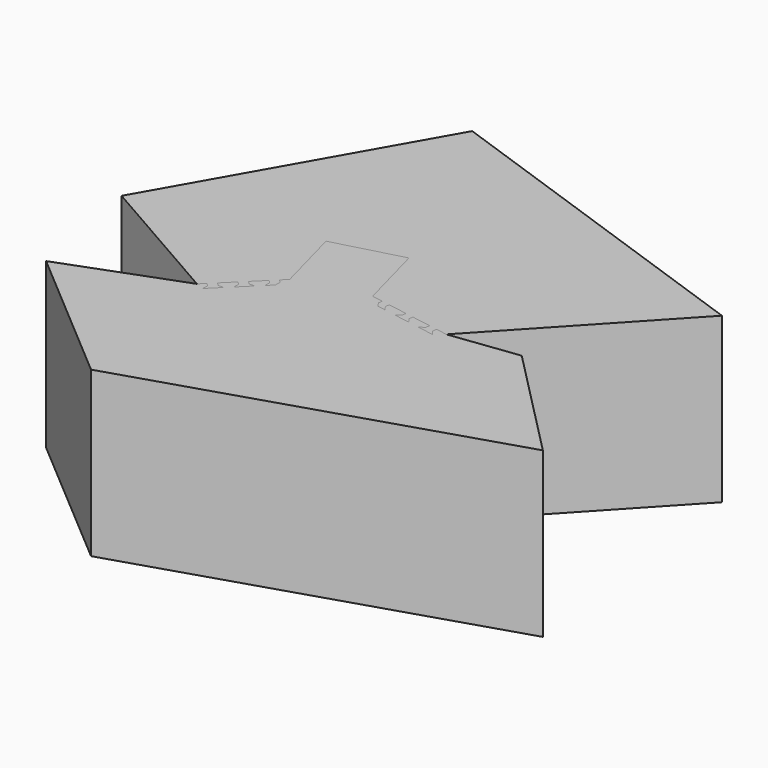
from build123d import *

# Parameters (mm, degrees)
F1_DEPTH = 100
F2_DEPTH = 100


with BuildPart() as f1:
    # F0 (on Top) → F1 (new body)
    with BuildSketch(Plane.XY):
        Polygon((47.063552, -4.100652), (53.87475, -5.25502), (54.52035, -3.4165), (55.49985, -0.94579), (57.70885, 4.3215), (58.83355, 7.1273), (59.89635, 10.0413), (60.84015, 13.0489), (61.60975, 16.1281), (62.15425, 19.2503), (62.42905, 22.3813), (62.39715, 25.483), (62.03065, 28.5147), (61.64635, 30.0767), (56.95075, 31.9738), (54.45145, 32.505), (54.47725, 32.6261), (53.28815, 33.6967), (53.62085, 35.2618), (55.14255, 35.7562), (55.32655, 35.5905), (57.88995, 35.0457), (60.28315, 34.0787), (60.23445, 34.2037), (58.80165, 36.7834), (57.02775, 39.1417), (54.93675, 41.2523), (52.56115, 43.0965), (49.94065, 44.6643), (47.12005, 45.9551), (44.14795, 46.9776), (41.07425, 47.75), (37.94825, 48.2994), (34.81675, 48.6605), (31.72235, 48.8748), (28.70165, 48.9886), (22.99125, 49.1129), (20.33575, 49.2231), (17.82175, 49.4276), (15.44465, 49.7675), (13.19215, 50.2766), (11.04515, 50.9802), (8.97875, 51.894), (6.96425, 53.0228), (4.97025, 54.3608), (2.96505, 55.8911), (0.91795, 57.5861), (-3.4089, 61.3147), (-5.72986, 63.2514), (-8.17284, 65.1627), (-10.74162, 66.9897), (-13.40326, 68.655), (-16.20161, 75.2043), (-14.03963, 79.8407), (-19.57281, 82.4209), (-20.20982, 83.7705), (-24.42685, 91.3774), (-29.06795, 98.0634), (-31.05355, 100.1334), (-37.50015, 98.4054), (-37.48715, 98.3574), (-43.86225, 96.6494), (-43.87525, 96.6974), (-50.32175, 94.9704), (-51.00685, 92.1854), (-51.68285, 84.0741), (-51.53145, 75.3779), (-51.40835, 73.8905), (-54.91005, 68.8895), (-50.40475, 65.7348), (-48.90245, 67.8802), (-42.34855, 43.4208), (-51.04195, 41.0914), (-53.64105, 50.7915), (-53.81195, 50.3678), (-54.85355, 47.5301), (-56.73645, 42.1377), (-57.66175, 39.6462), (-58.63325, 37.3183), (-59.69105, 35.1626), (-60.87125, 33.1777), (-62.20395, 31.3532), (-63.71145, 29.6703), (-65.40765, 28.1032), (-67.29635, 26.6203), (-69.37125, 25.1861), (-71.61595, 23.763), (-76.49915, 20.8001), (-79.05825, 19.1913), (-81.63085, 17.4585), (-84.16225, 15.58), (-86.59475, 13.5412), (-88.87045, 11.3354), (-90.93315, 8.9639), (-92.73045, 6.4358), (-94.21595, 3.7677), (-94.82315, 2.2781), (-92.13945, -2.01668), (-90.42975, -3.9155), (-90.52175, -3.99832), (-90.18905, -5.56336), (-91.37805, -6.63397), (-92.89975, -6.13954), (-92.95125, -5.89739), (-94.70485, -3.94984), (-96.07265, -1.7609), (-96.10675, -1.89056), (-96.46385, -4.81984), (-96.41485, -7.7704), (-95.96375, -10.70692), (-95.12595, -13.59526), (-93.92745, -16.40399), (-92.40425, -19.10613), (-90.60075, -21.6803), (-88.56805, -24.1119), (-86.36195, -26.3938), (-84.04085, -28.5265), (-81.66345, -30.5187), (-79.28645, -32.3863), (-74.73975, -35.8434), (-72.65615, -37.4933), (-71.17785, -38.7628), (-67.746659, -35.375531), (-65.990316, -37.154648), (-66.036159, -40.712882), (-62.477924, -37.200195), (-58.91969, -33.687508), (-62.432377, -33.642252), (-64.18872, -31.863135), (-57.199591, -24.963471), (-55.443247, -26.742588), (-55.443247, -30.255566), (-51.885013, -26.742879), (-48.326779, -23.230192), (-51.885308, -23.230192), (-53.641652, -21.451075), (-46.629601, -14.528783), (-44.873258, -16.3079), (-44.9191, -19.866134), (-41.360866, -16.353447), (-41.315319, -12.795504), (-43.071662, -11.016387), (-39.656596, -7.645036), (-39.61755, -7.60649), (-50.74555, 33.9239), (-9.14656, 45.0703), (1.98145, 3.5399), (8.792648, 2.385532), (8.374903, -0.079318), (10.422009, -2.961914), (15.35171, -3.797404), (13.304605, -0.914808), (13.72235, 1.550042), (25.463249, -0.439815), (25.045504, -2.904666), (22.162909, -4.951772), (27.09261, -5.787261), (32.022312, -6.622751), (29.975206, -3.740156), (30.392951, -1.275305), (42.13385, -3.265162), (41.716105, -5.730013), (38.83351, -7.777119), (43.763211, -8.612609), (48.692913, -9.448099), (46.645807, -6.565503), align=None)
        Polygon((-71.09905, -29.6513), (-71.20325, -29.5837), (-73.46545, -29.4651), (-78.15285, -28.7227), (-82.73695, -27.4944), (-84.95225, -26.644), (-83.80545, -23.6566), (-81.74675, -24.4468), (-77.48665, -25.5883), (-73.13045, -26.2783), (-70.92835, -26.3937), (-70.93155, -26.4557), (-69.58965, -27.3272), (-69.67345, -28.925), align=None, mode=Mode.SUBTRACT)
        Polygon((-70.74295, -22.8573), (-74.18435, -22.3123), (-77.43725, -21.0636), (-80.35935, -19.16594), (-82.82315, -16.70218), (-84.72085, -13.78001), (-85.96945, -10.52715), (-86.51455, -7.08579), (-86.33215, -3.60628), (-85.43035, -0.24072), (-83.84855, 2.8638), (-81.65585, 5.5716), (-78.94805, 7.7643), (-75.84355, 9.3462), (-72.47795, 10.248), (-68.99845, 10.4303), (-65.55705, 9.8853), (-62.30415, 8.6366), (-59.38205, 6.7389), (-56.91825, 4.2752), (-55.02055, 1.353), (-53.77195, -1.89987), (-53.22685, -5.34126), (-53.40925, -8.820756), (-54.31105, -12.1863), (-55.89285, -15.29082), (-58.08555, -17.99861), (-60.79335, -20.1914), (-63.89795, -21.7732), (-67.26345, -22.675), align=None, mode=Mode.SUBTRACT)
        Polygon((47.65305, 2.5126), (46.78155, 3.8544), (47.50795, 5.28), (49.10575, 5.3638), (49.97715, 4.0219), (49.25085, 2.5963), align=None, mode=Mode.SUBTRACT)
        Polygon((-68.80985, 14.0287), (-70.15175, 14.9001), (-70.06795, 16.4979), (-68.64235, 17.2243), (-67.30055, 16.3529), (-67.38425, 14.7551), align=None, mode=Mode.SUBTRACT)
        Polygon((-38.42705, 76.3648), (-41.06855, 86.2228), (-40.95165, 86.2541), (-40.99295, 86.4082), (-40.82145, 86.6005), (-40.83585, 86.6542), (-40.60045, 86.9603), (-40.34885, 87.0277), (-40.37745, 87.1348), (-40.04765, 87.5049), (-39.58545, 87.769), (-39.29825, 86.6972), (-36.45885, 87.458), (-36.74675, 88.5325), (-36.73955, 88.5344), (-36.57845, 88.5497), (-35.93765, 88.4719), (-35.69425, 88.2749), (-35.46745, 88.3356), (-35.06415, 88.1691), (-35.05765, 88.145), (-34.76845, 87.9109), (-34.69345, 87.931), (-32.05195, 78.073), align=None, mode=Mode.SUBTRACT)
        Polygon((35.59585, 5.6361), (32.15445, 6.1811), (28.90165, 7.4298), (25.97945, 9.3275), (23.51575, 11.7912), (21.61805, 14.7134), (20.36935, 17.9662), (19.82435, 21.4076), (20.00665, 24.8871), (20.90845, 28.2527), (22.49025, 31.3572), (24.68305, 34.065), (27.39085, 36.2577), (30.49535, 37.8396), (33.86085, 38.7414), (37.34045, 38.9237), (40.78175, 38.3787), (44.03465, 37.13), (46.95685, 35.2323), (49.42055, 32.7686), (51.31825, 29.8464), (52.56695, 26.5935), (53.11195, 23.1522), (52.92965, 19.6727), (52.02785, 16.3071), (50.44595, 13.2026), (48.25325, 10.4948), (45.54545, 8.3021), (42.44095, 6.7202), (39.07535, 5.8184), align=None, mode=Mode.SUBTRACT)
        Polygon((23.83045, 39.196), (22.95905, 40.5379), (23.68545, 41.9635), (23.80955, 41.97), (25.70935, 43.2038), (29.93795, 45.3583), (34.36855, 47.0591), (36.66065, 47.6732), (37.48885, 44.5823), (35.35875, 44.0115), (31.24125, 42.431), (27.31155, 40.4287), (25.46215, 39.2276), (25.42835, 39.2798), align=None, mode=Mode.SUBTRACT)
        Polygon((-40.95165, 86.2541), (-41.06855, 86.2228), (-38.42705, 76.3648), (-32.05195, 78.073), (-34.69345, 87.931), (-34.76845, 87.9109), (-35.05765, 88.145), (-35.06415, 88.1691), (-35.46745, 88.3356), (-35.69425, 88.2749), (-35.93765, 88.4719), (-36.57845, 88.5497), (-36.73955, 88.5344), (-36.74675, 88.5325), (-36.45885, 87.458), (-39.29825, 86.6972), (-39.58545, 87.769), (-40.04765, 87.5049), (-40.37745, 87.1348), (-40.34885, 87.0277), (-40.60045, 86.9603), (-40.83585, 86.6542), (-40.82145, 86.6005), (-40.99295, 86.4082), align=None)
        Polygon((28.90165, 7.4298), (32.15445, 6.1811), (35.59585, 5.6361), (39.07535, 5.8184), (42.44095, 6.7202), (45.54545, 8.3021), (48.25325, 10.4948), (50.44595, 13.2026), (52.02785, 16.3071), (52.92965, 19.6727), (53.11195, 23.1522), (52.56695, 26.5935), (51.31825, 29.8464), (49.42055, 32.7686), (46.95685, 35.2323), (44.03465, 37.13), (40.78175, 38.3787), (37.34045, 38.9237), (33.86085, 38.7414), (30.49535, 37.8396), (27.39085, 36.2577), (24.68305, 34.065), (22.49025, 31.3572), (20.90845, 28.2527), (20.00665, 24.8871), (19.82435, 21.4076), (20.36935, 17.9662), (21.61805, 14.7134), (23.51575, 11.7912), (25.97945, 9.3275), align=None)
        Polygon((-77.43725, -21.0636), (-74.18435, -22.3123), (-70.74295, -22.8573), (-67.26345, -22.675), (-63.89795, -21.7732), (-60.79335, -20.1914), (-58.08555, -17.99861), (-55.89285, -15.29082), (-54.31105, -12.1863), (-53.40925, -8.820756), (-53.22685, -5.34126), (-53.77195, -1.89987), (-55.02055, 1.353), (-56.91825, 4.2752), (-59.38205, 6.7389), (-62.30415, 8.6366), (-65.55705, 9.8853), (-68.99845, 10.4303), (-72.47795, 10.248), (-75.84355, 9.3462), (-78.94805, 7.7643), (-81.65585, 5.5716), (-83.84855, 2.8638), (-85.43035, -0.24072), (-86.33215, -3.60628), (-86.51455, -7.08579), (-85.96945, -10.52715), (-84.72085, -13.78001), (-82.82315, -16.70218), (-80.35935, -19.16594), align=None)
        Polygon((-70.06795, 16.4979), (-70.15175, 14.9001), (-68.80985, 14.0287), (-67.38425, 14.7551), (-67.30055, 16.3529), (-68.64235, 17.2243), align=None)
        Polygon((47.50795, 5.28), (46.78155, 3.8544), (47.65305, 2.5126), (49.25085, 2.5963), (49.97715, 4.0219), (49.10575, 5.3638), align=None)
        Polygon((23.68545, 41.9635), (22.95905, 40.5379), (23.83045, 39.196), (25.42835, 39.2798), (25.46215, 39.2276), (27.31155, 40.4287), (31.24125, 42.431), (35.35875, 44.0115), (37.48885, 44.5823), (36.66065, 47.6732), (34.36855, 47.0591), (29.93795, 45.3583), (25.70935, 43.2038), (23.80955, 41.97), align=None)
        Polygon((-73.46545, -29.4651), (-71.20325, -29.5837), (-71.09905, -29.6513), (-69.67345, -28.925), (-69.58965, -27.3272), (-70.93155, -26.4557), (-70.92835, -26.3937), (-73.13045, -26.2783), (-77.48665, -25.5883), (-81.74675, -24.4468), (-83.80545, -23.6566), (-84.95225, -26.644), (-82.73695, -27.4944), (-78.15285, -28.7227), align=None)
        Polygon((54.52035, -3.4165), (53.87475, -5.25502), (144.169867, 91.61818), (-67.26345, 165.863415), (-155.817702, 9.686623), (-71.17785, -38.7628), (-72.65615, -37.4933), (-74.73975, -35.8434), (-79.28645, -32.3863), (-81.66345, -30.5187), (-84.04085, -28.5265), (-86.36195, -26.3938), (-88.56805, -24.1119), (-90.60075, -21.6803), (-92.40425, -19.10613), (-93.92745, -16.40399), (-95.12595, -13.59526), (-95.96375, -10.70692), (-96.41485, -7.7704), (-96.46385, -4.81984), (-96.10675, -1.89056), (-96.07265, -1.7609), (-94.70485, -3.94984), (-92.95125, -5.89739), (-92.89975, -6.13954), (-91.37805, -6.63397), (-90.18905, -5.56336), (-90.52175, -3.99832), (-90.42975, -3.9155), (-92.13945, -2.01668), (-94.82315, 2.2781), (-94.21595, 3.7677), (-92.73045, 6.4358), (-90.93315, 8.9639), (-88.87045, 11.3354), (-86.59475, 13.5412), (-84.16225, 15.58), (-81.63085, 17.4585), (-79.05825, 19.1913), (-76.49915, 20.8001), (-71.61595, 23.763), (-69.37125, 25.1861), (-67.29635, 26.6203), (-65.40765, 28.1032), (-63.71145, 29.6703), (-62.20395, 31.3532), (-60.87125, 33.1777), (-59.69105, 35.1626), (-58.63325, 37.3183), (-57.66175, 39.6462), (-56.73645, 42.1377), (-54.85355, 47.5301), (-53.81195, 50.3678), (-53.64105, 50.7915), (-51.04195, 41.0914), (-42.34855, 43.4208), (-48.90245, 67.8802), (-50.40475, 65.7348), (-54.91005, 68.8895), (-51.40835, 73.8905), (-51.53145, 75.3779), (-51.68285, 84.0741), (-51.00685, 92.1854), (-50.32175, 94.9704), (-43.87525, 96.6974), (-43.86225, 96.6494), (-37.48715, 98.3574), (-37.50015, 98.4054), (-31.05355, 100.1334), (-29.06795, 98.0634), (-24.42685, 91.3774), (-20.20982, 83.7705), (-19.57281, 82.4209), (-14.03963, 79.8407), (-16.20161, 75.2043), (-13.40326, 68.655), (-10.74162, 66.9897), (-8.17284, 65.1627), (-5.72986, 63.2514), (-3.4089, 61.3147), (0.91795, 57.5861), (2.96505, 55.8911), (4.97025, 54.3608), (6.96425, 53.0228), (8.97875, 51.894), (11.04515, 50.9802), (13.19215, 50.2766), (15.44465, 49.7675), (17.82175, 49.4276), (20.33575, 49.2231), (22.99125, 49.1129), (28.70165, 48.9886), (31.72235, 48.8748), (34.81675, 48.6605), (37.94825, 48.2994), (41.07425, 47.75), (44.14795, 46.9776), (47.12005, 45.9551), (49.94065, 44.6643), (52.56115, 43.0965), (54.93675, 41.2523), (57.02775, 39.1417), (58.80165, 36.7834), (60.23445, 34.2037), (60.28315, 34.0787), (57.88995, 35.0457), (55.32655, 35.5905), (55.14255, 35.7562), (53.62085, 35.2618), (53.28815, 33.6967), (54.47725, 32.6261), (54.45145, 32.505), (56.95075, 31.9738), (61.64635, 30.0767), (62.03065, 28.5147), (62.39715, 25.483), (62.42905, 22.3813), (62.15425, 19.2503), (61.60975, 16.1281), (60.84015, 13.0489), (59.89635, 10.0413), (58.83355, 7.1273), (57.70885, 4.3215), (55.49985, -0.94579), align=None)
    extrude(amount=F1_DEPTH)


with BuildPart() as f2:
    # F0 (on Top) → F2 (new body)
    with BuildSketch(Plane.XY):
        Polygon((11.90965, -100.1334), (13.22625, -95.2199), (4.45365, -92.8693), (14.84455, -54.0901), (52.07465, -64.0659), (52.62445, -63.4753), (64.97425, -66.7844), (69.57335, -49.6203), (71.06085, -48.5787), (72.54825, -48.7018), (81.24445, -48.8532), (89.35575, -48.1771), (92.14075, -47.4921), (93.86775, -41.0456), (93.81975, -41.0326), (95.52775, -34.6575), (95.57575, -34.6705), (97.30375, -28.2239), (95.23375, -26.2383), (88.54775, -21.5972), (80.94085, -17.38019), (79.59125, -16.74316), (77.01105, -11.20998), (72.37465, -13.37196), (65.89685, -10.60355), (59.65165, -7.99066), (54.72455, -5.74194), (53.87475, -5.25502), (47.063552, -4.100652), (46.645807, -6.565503), (48.692913, -9.448099), (43.763211, -8.612609), (38.83351, -7.777119), (41.716105, -5.730013), (42.13385, -3.265162), (30.392951, -1.275305), (29.975206, -3.740156), (32.022312, -6.622751), (27.09261, -5.787261), (22.162909, -4.951772), (25.045504, -2.904666), (25.463249, -0.439815), (13.72235, 1.550042), (13.304605, -0.914808), (15.35171, -3.797404), (10.422009, -2.961914), (8.374903, -0.079318), (8.792648, 2.385532), (1.98145, 3.5399), (-9.14656, 45.0703), (-50.74555, 33.9239), (-39.61755, -7.60649), (-39.656596, -7.645036), (-43.071662, -11.016387), (-41.315319, -12.795504), (-41.360866, -16.353447), (-44.9191, -19.866134), (-44.873258, -16.3079), (-46.629601, -14.528783), (-53.641652, -21.451075), (-51.885308, -23.230192), (-48.326779, -23.230192), (-51.885013, -26.742879), (-55.443247, -30.255566), (-55.443247, -26.742588), (-57.199591, -24.963471), (-64.18872, -31.863135), (-62.432377, -33.642252), (-58.91969, -33.687508), (-62.477924, -37.200195), (-66.036159, -40.712882), (-65.990316, -37.154648), (-67.746659, -35.375531), (-71.17785, -38.7628), (-71.67025, -39.6093), (-74.81295, -44.0203), (-78.91505, -49.4058), (-83.14065, -55.0422), (-88.23695, -55.488), (-87.70485, -61.57), (-88.55515, -62.7965), (-93.03435, -70.2519), (-96.50455, -77.6145), (-97.30375, -80.3687), (-92.58445, -85.0879), (-92.54915, -85.0526), (-87.88225, -89.7195), (-87.91755, -89.7548), (-83.19835, -94.4741), (-80.44415, -93.6749), (-73.08155, -90.2047), (-65.62615, -85.7255), (-64.39965, -84.8752), (-58.31765, -85.4073), (-57.87185, -80.311), (-54.33325, -77.6581), (-53.75695, -78.6177), (-51.90805, -81.1082), (-49.82955, -83.3455), (-48.60055, -84.3832), (-43.68665, -83.1581), (-41.35245, -82.1188), (-41.30205, -82.2319), (-39.71085, -82.3991), (-39.06005, -83.8608), (-40.00055, -85.1552), (-40.24675, -85.1294), (-42.64085, -86.1953), (-45.14535, -86.8197), (-45.03255, -86.8922), (-42.35695, -88.137), (-39.53565, -89.0023), (-36.60345, -89.4807), (-33.59765, -89.5764), (-30.55595, -89.3045), (-27.51545, -88.6909), (-24.50995, -87.7711), (-21.56923, -86.5893), (-18.71733, -85.1963), (-15.97166, -83.6479), (-13.34227, -82.0024), (-10.8316, -80.319), (-6.13873, -77.063), (-3.92564, -75.5913), (-1.88705, -74.3495), (-7.40884, -94.957), align=None)
        Polygon((-80.44795, -82.114), (-80.70025, -82.0617), (-80.73955, -82.101), (-81.12235, -82.0502), (-81.30655, -81.866), (-81.38495, -81.9444), (-81.87035, -81.8438), (-82.33015, -81.5755), (-81.54555, -80.7909), (-83.62415, -78.7123), (-84.41065, -79.4989), (-84.41605, -79.4935), (-84.50975, -79.3617), (-84.76285, -78.7679), (-84.71395, -78.4586), (-84.87975, -78.2927), (-84.93725, -77.8599), (-84.91965, -77.8423), (-84.86155, -77.4748), (-84.91645, -77.4199), (-77.69985, -70.2033), (-73.03295, -74.8702), (-80.24955, -82.0868), (-80.33515, -82.0013), align=None, mode=Mode.SUBTRACT)
        Polygon((-33.68605, -79.92), (-37.12745, -79.3749), (-40.38025, -78.1263), (-43.30245, -76.2286), (-45.76625, -73.7648), (-47.66385, -70.8427), (-48.91255, -67.5898), (-49.45765, -64.1484), (-49.27525, -60.6689), (-48.37345, -57.3034), (-46.79165, -54.1988), (-44.59895, -51.491), (-41.89115, -49.2983), (-38.78655, -47.7165), (-35.42105, -46.8147), (-31.94155, -46.6323), (-28.50015, -47.1774), (-25.24725, -48.4261), (-22.32515, -50.3237), (-19.86136, -52.7875), (-17.96367, -55.7097), (-16.71503, -58.9625), (-16.16995, -62.4039), (-16.35231, -65.8834), (-17.25412, -69.249), (-18.83594, -72.3535), (-21.02867, -75.0613), (-23.73645, -77.254), (-26.84095, -78.8358), (-30.20655, -79.7376), align=None, mode=Mode.SUBTRACT)
        Polygon((-18.04369, -83.9329), (-20.53055, -81.9191), (-19.14276, -80.2053), (-16.74068, -76.5065), (-14.73839, -72.5767), (-13.94812, -70.518), (-13.89011, -70.5403), (-12.646667, -69.5334), (-11.152954, -70.1068), (-10.90266, -71.6871), (-10.99925, -71.7653), (-11.81105, -73.8801), (-13.96559, -78.1087), (-16.55037, -82.0888), align=None, mode=Mode.SUBTRACT)
        Polygon((-52.98085, -57.019), (-54.47465, -56.4456), (-54.72495, -54.8653), (-53.48145, -53.8584), (-51.98775, -54.4317), (-51.73745, -56.012), align=None, mode=Mode.SUBTRACT)
        Polygon((-29.46675, -39.4282), (-37.23135, -10.45041), (-28.53805, -8.12105), (-20.77344, -37.0988), align=None, mode=Mode.SUBTRACT)
        Polygon((0.40815, -31.4232), (-7.35638, -2.44544), (1.33695, -0.11607), (9.10155, -29.0938), align=None, mode=Mode.SUBTRACT)
        Polygon((-11.476974, -11.46422), (-13.22224, -11.23445), (-14.29387, -9.837876), (-14.0641, -8.09261), (-12.667526, -7.02098), (-10.92226, -7.25075), (-9.85063, -8.647324), (-10.0804, -10.39259), align=None, mode=Mode.SUBTRACT)
        Polygon((62.18005, -45.7029), (59.62655, -53.3009), (25.72255, -44.2163), (24.94615, -47.1141), (16.25275, -44.7847), (25.05265, -11.94324), (63.68965, -22.296), (62.66675, -42.7274), align=None, mode=Mode.SUBTRACT)
        Polygon((83.39315, -38.2389), (73.53515, -35.5974), (75.24335, -29.2223), (85.10135, -31.8638), (85.07005, -31.9807), (85.22405, -32.022), (85.30495, -32.2666), (85.35865, -32.281), (85.50595, -32.6378), (85.43855, -32.8895), (85.54565, -32.9182), (85.70125, -33.3889), (85.69895, -33.9213), (84.62705, -33.6341), (83.86615, -36.4735), (84.94065, -36.7614), (84.93865, -36.7689), (84.87145, -36.9158), (84.48365, -37.4318), (84.19135, -37.5441), (84.13065, -37.7708), (83.78465, -38.0369), (83.76055, -38.0304), (83.41325, -38.1639), align=None, mode=Mode.SUBTRACT)
        Polygon((-40.38025, -78.1263), (-37.12745, -79.3749), (-33.68605, -79.92), (-30.20655, -79.7376), (-26.84095, -78.8358), (-23.73645, -77.254), (-21.02867, -75.0613), (-18.83594, -72.3535), (-17.25412, -69.249), (-16.35231, -65.8834), (-16.16995, -62.4039), (-16.71503, -58.9625), (-17.96367, -55.7097), (-19.86136, -52.7875), (-22.32515, -50.3237), (-25.24725, -48.4261), (-28.50015, -47.1774), (-31.94155, -46.6323), (-35.42105, -46.8147), (-38.78655, -47.7165), (-41.89115, -49.2983), (-44.59895, -51.491), (-46.79165, -54.1988), (-48.37345, -57.3034), (-49.27525, -60.6689), (-49.45765, -64.1484), (-48.91255, -67.5898), (-47.66385, -70.8427), (-45.76625, -73.7648), (-43.30245, -76.2286), align=None)
        Polygon((-28.53805, -8.12105), (-37.23135, -10.45041), (-29.46675, -39.4282), (-20.77344, -37.0988), align=None)
        Polygon((1.33695, -0.11607), (-7.35638, -2.44544), (0.40815, -31.4232), (9.10155, -29.0938), align=None)
        Polygon((25.72255, -44.2163), (59.62655, -53.3009), (62.18005, -45.7029), (62.66675, -42.7274), (63.68965, -22.296), (25.05265, -11.94324), (16.25275, -44.7847), (24.94615, -47.1141), align=None)
        Polygon((-80.73955, -82.101), (-80.70025, -82.0617), (-80.44795, -82.114), (-80.33515, -82.0013), (-80.24955, -82.0868), (-73.03295, -74.8702), (-77.69985, -70.2033), (-84.91645, -77.4199), (-84.86155, -77.4748), (-84.91965, -77.8423), (-84.93725, -77.8599), (-84.87975, -78.2927), (-84.71395, -78.4586), (-84.76285, -78.7679), (-84.50975, -79.3617), (-84.41605, -79.4935), (-84.41065, -79.4989), (-83.62415, -78.7123), (-81.54555, -80.7909), (-82.33015, -81.5755), (-81.87035, -81.8438), (-81.38495, -81.9444), (-81.30655, -81.866), (-81.12235, -82.0502), align=None)
        Polygon((75.24335, -29.2223), (73.53515, -35.5974), (83.39315, -38.2389), (83.41325, -38.1639), (83.76055, -38.0304), (83.78465, -38.0369), (84.13065, -37.7708), (84.19135, -37.5441), (84.48365, -37.4318), (84.87145, -36.9158), (84.93865, -36.7689), (84.94065, -36.7614), (83.86615, -36.4735), (84.62705, -33.6341), (85.69895, -33.9213), (85.70125, -33.3889), (85.54565, -32.9182), (85.43855, -32.8895), (85.50595, -32.6378), (85.35865, -32.281), (85.30495, -32.2666), (85.22405, -32.022), (85.07005, -31.9807), (85.10135, -31.8638), align=None)
        Polygon((-19.14276, -80.2053), (-20.53055, -81.9191), (-18.04369, -83.9329), (-16.55037, -82.0888), (-13.96559, -78.1087), (-11.81105, -73.8801), (-10.99925, -71.7653), (-10.90266, -71.6871), (-11.152954, -70.1068), (-12.646667, -69.5334), (-13.89011, -70.5403), (-13.94812, -70.518), (-14.73839, -72.5767), (-16.74068, -76.5065), align=None)
        Polygon((-14.29387, -9.837876), (-13.22224, -11.23445), (-11.476974, -11.46422), (-10.0804, -10.39259), (-9.85063, -8.647324), (-10.92226, -7.25075), (-12.667526, -7.02098), (-14.0641, -8.09261), align=None)
        Polygon((-54.72495, -54.8653), (-54.47465, -56.4456), (-52.98085, -57.019), (-51.73745, -56.012), (-51.98775, -54.4317), (-53.48145, -53.8584), align=None)
        Polygon((4.45365, -92.8693), (13.22625, -95.2199), (11.90965, -100.1334), (-7.40884, -94.957), (-1.88705, -74.3495), (-3.92564, -75.5913), (-6.13873, -77.063), (-10.8316, -80.319), (-13.34227, -82.0024), (-15.97166, -83.6479), (-18.71733, -85.1963), (-21.56923, -86.5893), (-24.50995, -87.7711), (-27.51545, -88.6909), (-30.55595, -89.3045), (-33.59765, -89.5764), (-36.60345, -89.4807), (-39.53565, -89.0023), (-42.35695, -88.137), (-45.03255, -86.8922), (-45.14535, -86.8197), (-42.64085, -86.1953), (-40.24675, -85.1294), (-40.00055, -85.1552), (-39.06005, -83.8608), (-39.71085, -82.3991), (-41.30205, -82.2319), (-41.35245, -82.1188), (-43.68665, -83.1581), (-48.60055, -84.3832), (-49.82955, -83.3455), (-51.90805, -81.1082), (-53.75695, -78.6177), (-54.33325, -77.6581), (-57.87185, -80.311), (-58.31765, -85.4073), (-64.39965, -84.8752), (-65.62615, -85.7255), (-73.08155, -90.2047), (-80.44415, -93.6749), (-83.19835, -94.4741), (-87.91755, -89.7548), (-87.88225, -89.7195), (-92.54915, -85.0526), (-92.58445, -85.0879), (-97.30375, -80.3687), (-96.50455, -77.6145), (-93.03435, -70.2519), (-88.55515, -62.7965), (-87.70485, -61.57), (-88.23695, -55.488), (-83.14065, -55.0422), (-78.91505, -49.4058), (-74.81295, -44.0203), (-71.67025, -39.6093), (-71.17785, -38.7628), (-141.855791, -65.216534), (-55.356011, -139.126509), (164.325565, -69.847435), (95.573172, 0), (53.87475, -5.25502), (54.72455, -5.74194), (59.65165, -7.99066), (65.89685, -10.60355), (72.37465, -13.37196), (77.01105, -11.20998), (79.59125, -16.74316), (80.94085, -17.38019), (88.54775, -21.5972), (95.23375, -26.2383), (97.30375, -28.2239), (95.57575, -34.6705), (95.52775, -34.6575), (93.81975, -41.0326), (93.86775, -41.0456), (92.14075, -47.4921), (89.35575, -48.1771), (81.24445, -48.8532), (72.54825, -48.7018), (71.06085, -48.5787), (69.57335, -49.6203), (64.97425, -66.7844), (52.62445, -63.4753), (52.07465, -64.0659), (14.84455, -54.0901), align=None)
    extrude(amount=F2_DEPTH)


solid = Compound([f1.part, f2.part])
